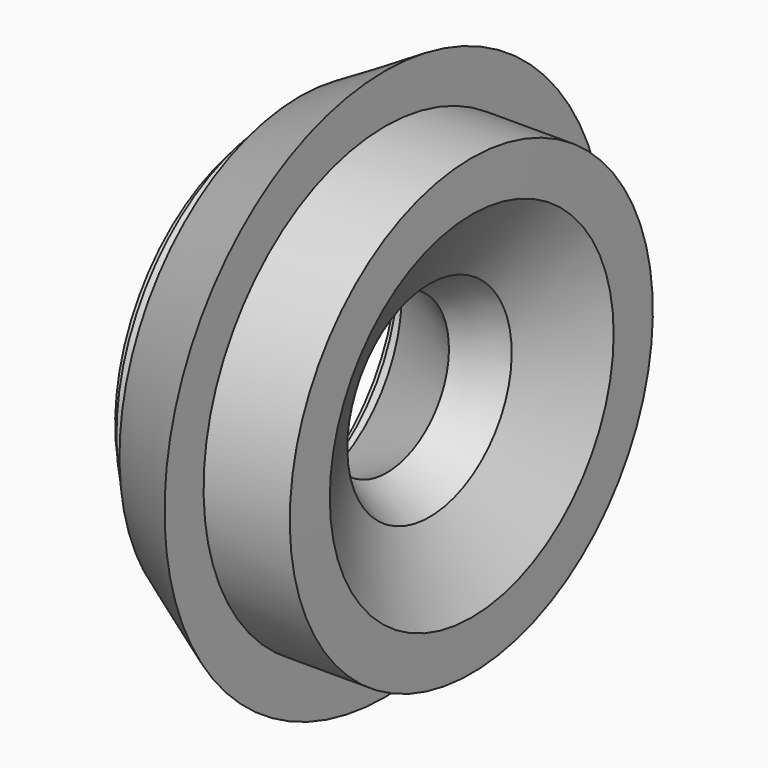
from build123d import *

# Parameters (mm, degrees)
F0_W = 2.2650395424
F0_H = 3.0083153293


with BuildPart() as f1:
    # F0 (on Front) → F1 (revolve)
    with BuildSketch(Plane.XZ):
        Polygon((-45.5736112406, 22.732421128), (-30.0700433831, 13.9608631497), (-22.3959553987, 18.4812154621), (-14.7995633587, 31.907699076), (-14.8772593031, 40.8138303776), (-30.3808271606, 40.8138303776), (-30.3808271606, 49.5853883559), (-45.7290031294, 40.5446837311), (-45.6866675821, 35.6918442891), (-41.150290519, 35.6918442891), (-41.150290519, 27.58526057), (-45.615946788, 27.58526057), align=None)
        Polygon((-50.1523238511, 27.58526057), (-45.615946788, 27.58526057), (-45.6866675821, 35.6918442891), (-50.1523238511, 35.6918442891), (-50.1523238511, 33.1427100942), (-47.8872843087, 33.1427100942), (-47.8872843087, 30.1343947649), (-50.1523238511, 30.1343947649), align=None)
        Polygon((-45.6866675821, 35.6918442891), (-45.615946788, 27.58526057), (-41.150290519, 27.58526057), (-41.150290519, 35.6918442891), align=None)
        with Locations((-51.2848436223, 31.6385524296)):
            Rectangle(F0_W, F0_H)
        with Locations((-49.0198040799, 31.6385524296)):
            Rectangle(F0_W, F0_H)
    revolve(axis=Axis((0.4552025348, 0, 0), (1, 0, 0)))


solid = f1.part
